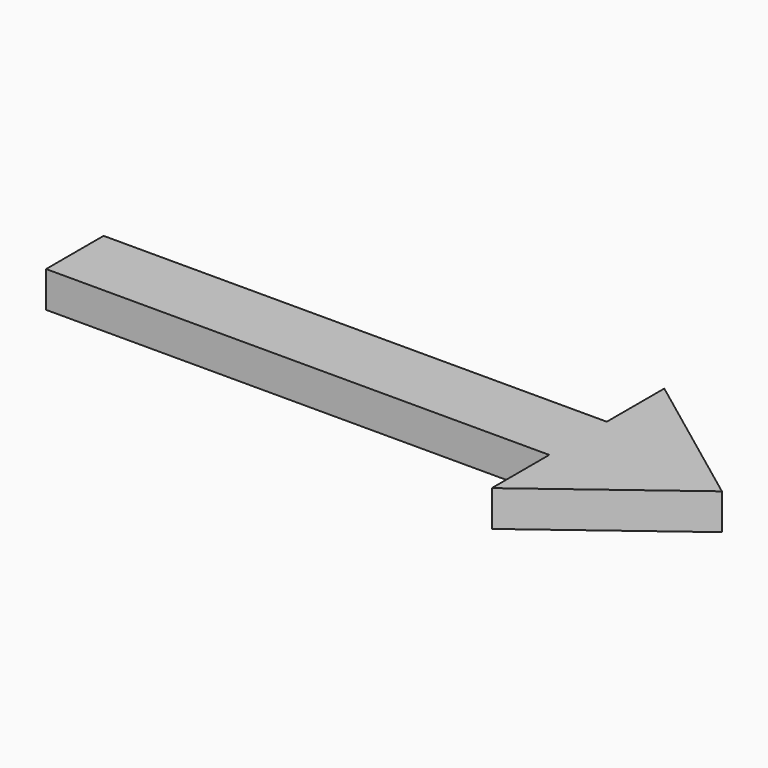
from build123d import *

# Parameters (mm, degrees)
PAD_DEPTH = 5


with BuildPart() as part:
    # Sketch → Pad (new body)
    with BuildSketch(Plane.XY):
        Polygon((0, 0), (0, 10), (20, -4.976789), (0, -20), (0, -10), (-70, -10), (-70, 0), align=None)
    extrude(amount=PAD_DEPTH)


solid = part.part
